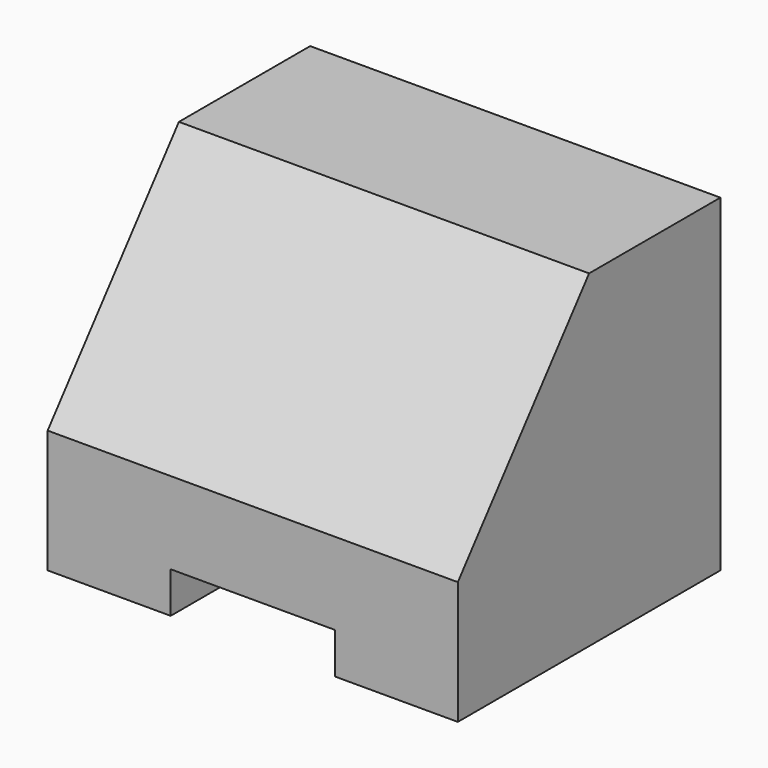
from build123d import *

# Parameters (mm, degrees)
F1_DEPTH = 50
F2_W     = 20
F2_H     = 5
F3_DEPTH = 15


with BuildPart() as f1:
    # F0 (on Right) → F1 (new body)
    with BuildSketch(Plane.YZ):
        Polygon((0, 40), (-20, 40), (-40, 15), (-40, 0), (0, 0), align=None)
    extrude(amount=-F1_DEPTH)

    # F2 (on face) → F3 (cut)
    with BuildSketch(Plane.XZ.offset(40)):
        with Locations((-25, 2.5)):
            Rectangle(F2_W, F2_H)
    extrude(amount=-F3_DEPTH, mode=Mode.SUBTRACT)


solid = f1.part
